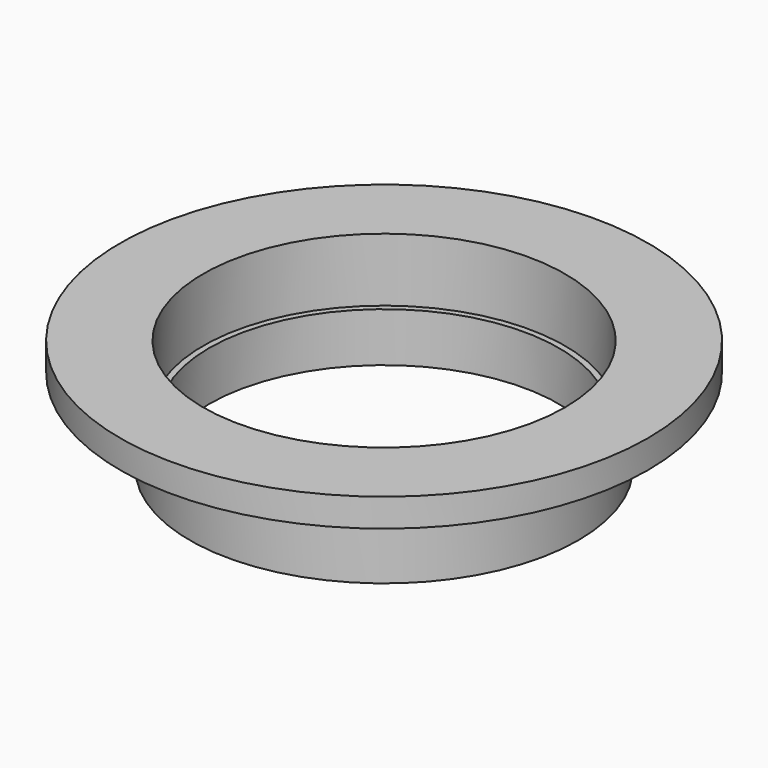
from build123d import *

# Parameters (mm, degrees)
F0_R     = 25.7
F0_R_2   = 24.85
F1_DEPTH = 7
F2_R     = 27.6
F2_R_2   = 25.7
F3_DEPTH = 12
F5_R     = 37.5
F5_R_2   = 25.7
F6_DEPTH = 4


with BuildPart() as f1:
    # F0 (on Top) → F1 (new body)
    with BuildSketch(Plane.XY):
        Circle(F0_R)
        Circle(F0_R_2, mode=Mode.SUBTRACT)
    extrude(amount=F1_DEPTH)

    # F2 (on Top) → F3 (join)
    with BuildSketch(Plane.XY):
        Circle(F2_R)
        Circle(F2_R_2, mode=Mode.SUBTRACT)
    extrude(amount=F3_DEPTH)

    # F5 (on offset) → F6 (join)
    with BuildSketch(Plane.XY.offset(12)):
        Circle(F5_R)
        Circle(F5_R_2, mode=Mode.SUBTRACT)
    extrude(amount=F6_DEPTH)


solid = f1.part
